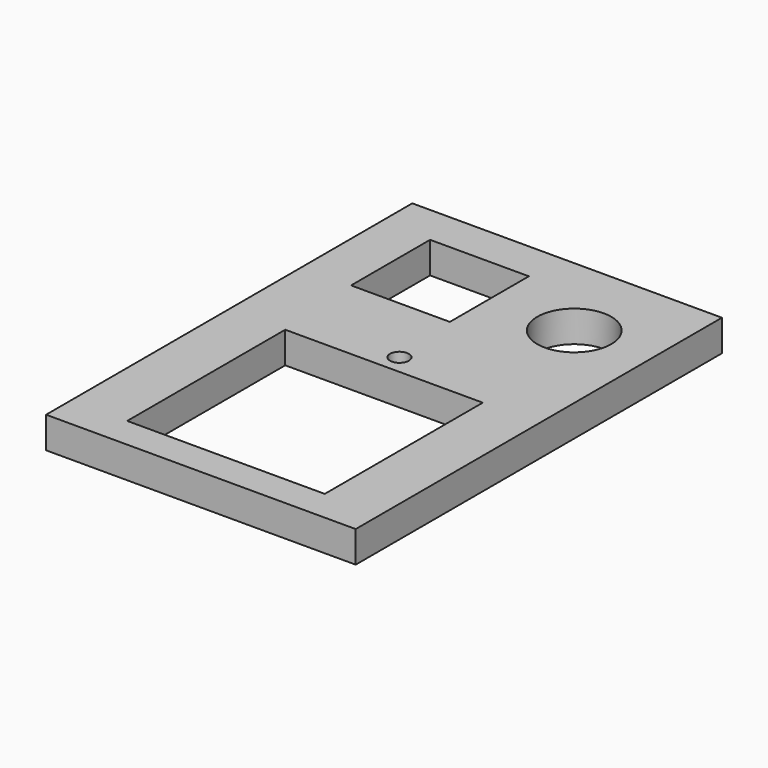
from build123d import *

# Parameters (mm, degrees)
F0_W     = 20
F0_H     = 20
F0_R     = 7.5
F1_DEPTH = 6.35


with BuildPart() as f1:
    # F0 (on Top) → F1 (new body)
    with BuildSketch(Plane.XY):
        Polygon((31.35, -46.35), (31.35, 46.35), (-31.35, 46.35), (-31.35, -46.35), (0, -46.35), align=None)
        Polygon((20, -40), (0, -40), (-20, -40), (-20, 0), (0, 0), (20, 0), align=None, mode=Mode.SUBTRACT)
        with Locations((-11.35, 28.35)):
            Rectangle(F0_W, F0_H, mode=Mode.SUBTRACT)
        with BuildLine():
            ThreePointArc((1.905, 3.905), (1.347038, 2.557962), (0, 2))
            ThreePointArc((0, 2), (-1.347038, 5.252038), (1.905, 3.905))
        make_face(mode=Mode.SUBTRACT)
        with Locations((15.85, 28.35)):
            Circle(F0_R, mode=Mode.SUBTRACT)
    extrude(amount=F1_DEPTH)


solid = f1.part
